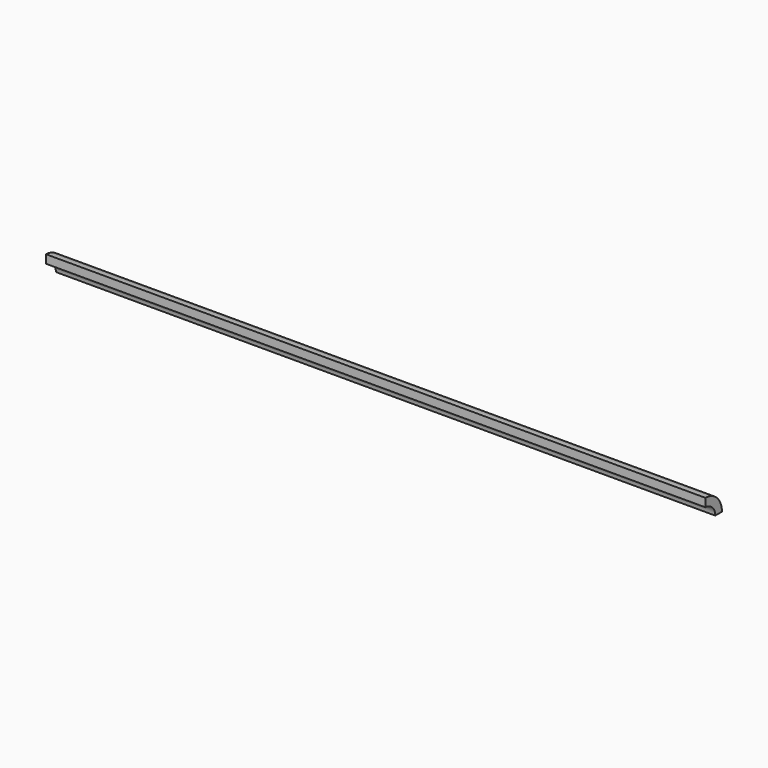
from build123d import *

# Parameters (mm, degrees)
F1_DEPTH = 685.8


with BuildPart() as f1:
    # F0 (on Right) → F1 (new body)
    with BuildSketch(Plane.YZ):
        with BuildLine():
            ThreePointArc((0, 12.7), (8.980256, 8.980256), (12.7, 0))
            Line((12.7, 0), (21.4249, 0))
            ThreePointArc((21.4249, 0), (15.149692, 15.149692), (0, 21.4249))
            Line((0, 21.4249), (0, 12.7))
        make_face()
    extrude(amount=F1_DEPTH)


solid = f1.part
